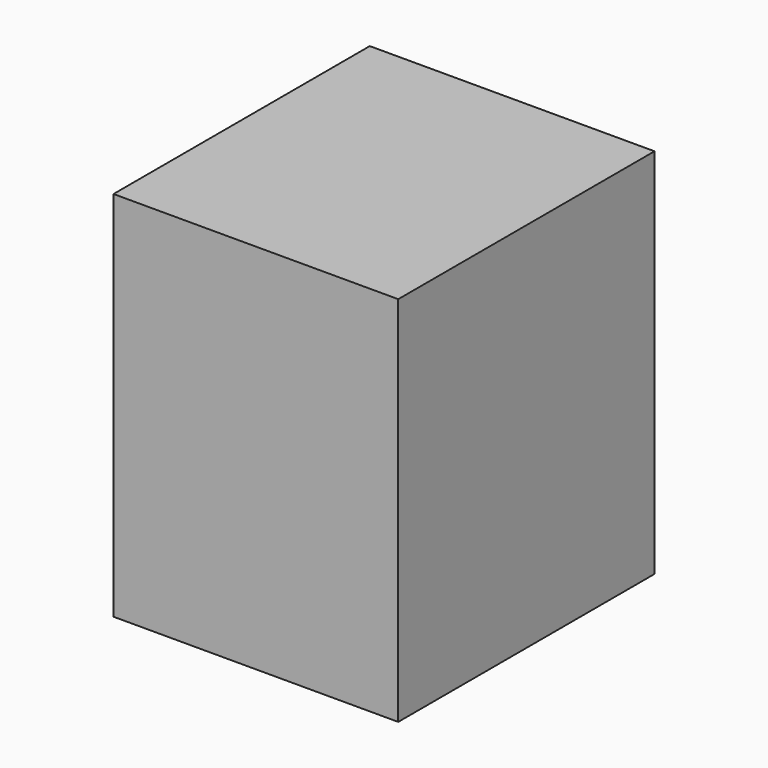
from build123d import *

# Parameters (mm, degrees)
F0_W     = 39.1732295975
F0_H     = 34.004369285
F1_DEPTH = 25.4
F3_W     = 19.4331686944
F3_H     = 21.8623159453
F4_DEPTH = 25.4


with BuildPart() as f1:
    # F0 (on Top) → F1 (new body)
    with BuildSketch(Plane.XY):
        with Locations((-31.1264027841, 23.8298953045)):
            Rectangle(F0_W, F0_H)
    extrude(amount=F1_DEPTH)


with BuildPart() as f4:
    # F3 (on Top) → F4 (new body)
    with BuildSketch(Plane.XY):
        with Locations((-9.7165843472, -18.674061168)):
            Rectangle(F3_W, F3_H)
    extrude(amount=F4_DEPTH)


solid = f4.part
